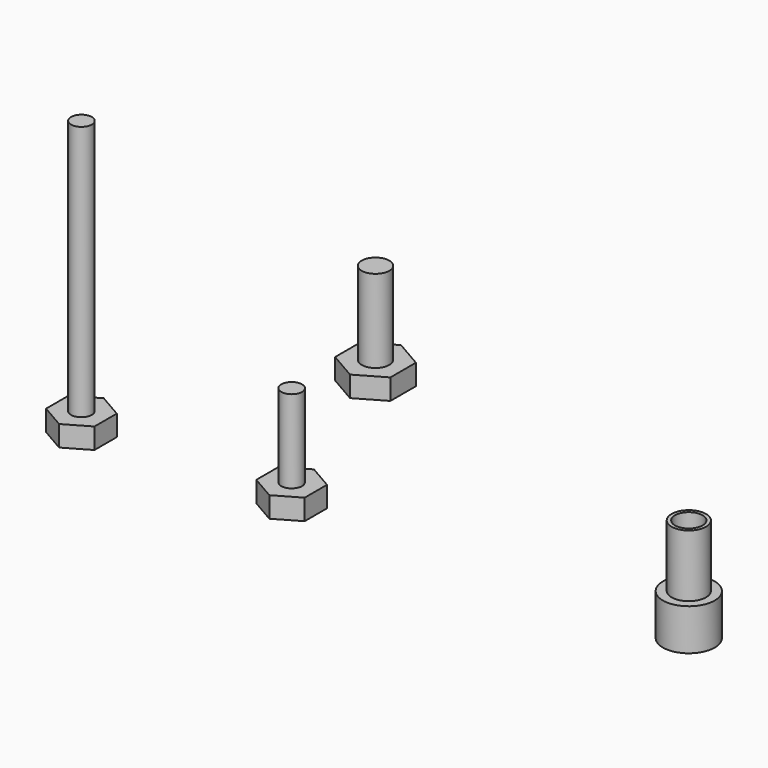
from build123d import *

# Parameters (mm, degrees)
F0_R     = 1.5
F1_DEPTH = 3
F0_R_2   = 2
F2_DEPTH = 40
F3_DEPTH = 15
F4_R     = 3.75
F4_R_2   = 2.5
F5_DEPTH = 6
F6_DEPTH = 15
F7_D     = 5.4
F7_DEPTH = 5
F7_TIP   = 1.6223236714
F8_D     = 4
F8_DEPTH = 15
F8_START = 5.4206024
F8_TIP   = 1.2017212381


with BuildPart() as f1:
    # F0 (on Top) → F1 (new body)
    with BuildSketch(Plane.XY):
        Polygon((-56.303340584, -56.9408367937), (-56.303340584, -52.8993849094), (-59.803340584, -50.8786589672), (-63.303340584, -52.8993849094), (-63.303340584, -56.9408367937), (-59.803340584, -58.9615627359), align=None)
        with Locations((-59.803340584, -54.9201108515)):
            Circle(F0_R, mode=Mode.SUBTRACT)
    extrude(amount=F1_DEPTH)

    # F0 (on Top) → F2 (join)
    with BuildSketch(Plane.XY):
        with Locations((-59.803340584, -54.9201108515)):
            Circle(F0_R)
    extrude(amount=F2_DEPTH)


with BuildPart() as f1b:
    # F0 (on Top) → F1, piece 2 (new body)
    with BuildSketch(Plane.XY):
        Polygon((-26.8625445813, -55.7015779977), (-26.8625445813, -51.6601261134), (-30.3625445813, -49.6394001712), (-33.8625445813, -51.6601261134), (-33.8625445813, -55.7015779977), (-30.3625445813, -57.7223039399), align=None)
        with Locations((-30.3625445813, -53.6808520555)):
            Circle(F0_R, mode=Mode.SUBTRACT)
    extrude(amount=F1_DEPTH)

    # F0 (on Top) → F3 (join)
    with BuildSketch(Plane.XY):
        with Locations((-30.3625445813, -53.6808520555)):
            Circle(F0_R)
    extrude(amount=F3_DEPTH)


with BuildPart() as f1c:
    # F0 (on Top) → F1, piece 3 (new body)
    with BuildSketch(Plane.XY):
        Polygon((-37.6870862246, -26.6604223517), (-37.6870862246, -22.0416201982), (-41.6870862246, -19.7322191214), (-45.6870862246, -22.0416201982), (-45.6870862246, -26.6604223517), (-41.6870862246, -28.9698234284), align=None)
        with Locations((-41.6870862246, -24.3510212749)):
            Circle(F0_R_2, mode=Mode.SUBTRACT)
    extrude(amount=F1_DEPTH)

    # F0 (on Top) → F3, piece 2 (join)
    with BuildSketch(Plane.XY):
        with Locations((-41.6870862246, -24.3510212749)):
            Circle(F0_R_2)
    extrude(amount=F3_DEPTH)


with BuildPart() as f5:
    # F4 (on Top) → F5 (new body)
    with BuildSketch(Plane.XY):
        with Locations((24.9082874507, -50.9083606303)):
            Circle(F4_R)
        with Locations((24.9082874507, -50.9083606303)):
            Circle(F4_R_2, mode=Mode.SUBTRACT)
    extrude(amount=F5_DEPTH)

    # F4 (on Top) → F6 (join)
    with BuildSketch(Plane.XY):
        with Locations((24.9082874507, -50.9083606303)):
            Circle(F4_R_2)
    extrude(amount=F6_DEPTH)

    # F7
    with Locations(Plane(origin=(0, 0, 0), x_dir=(1, 0, 0), z_dir=(0, 0, -1))):
        with Locations((24.9082874507, 50.9083606303)):
            Hole(F7_D / 2, depth=F7_DEPTH)
            with Locations((0, 0, -(F7_DEPTH + F7_TIP / 2))):  # 118° drill point
                Cone(0, F7_D / 2, F7_TIP, mode=Mode.SUBTRACT)

    # F8
    # its depths count from where the whole tool has entered the part; down to there all is cleared
    with Locations(Plane(origin=(0, 0, 0), x_dir=(1, 0, 0), z_dir=(0, 0, -1)).offset(-F8_START)):
        with Locations((24.9082874507, 50.9083606303)):
            Hole(F8_D / 2, depth=F8_DEPTH)
            with Locations((0, 0, -(F8_DEPTH + F8_TIP / 2))):  # 118° drill point
                Cone(0, F8_D / 2, F8_TIP, mode=Mode.SUBTRACT)


solid = Compound([f1.part, f1b.part, f1c.part, f5.part])
